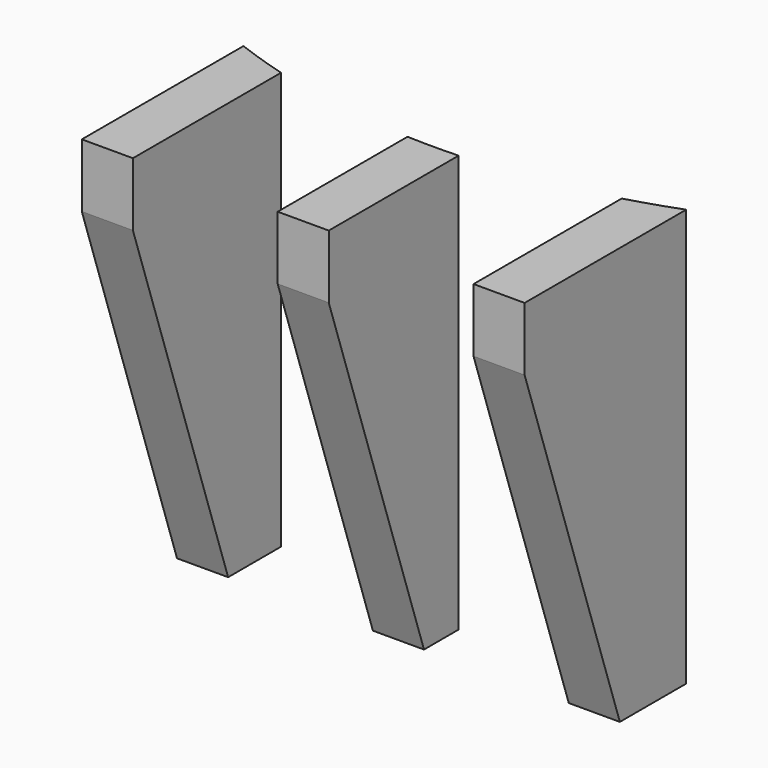
from build123d import *

# Parameters (mm, degrees)
CYLINDER1827_R         = 74
CYLINDER1827_DEPTH     = 64
BOX790_W               = 80
BOX790_H               = 6
BOX790_DEPTH           = 20
BOX790_PLACEMENT_ANGLE = 71.4
BOX792_W               = 44
BOX792_H               = 6
BOX792_DEPTH           = 49
CUT588_PLACEMENT_ANGLE = 90
BOX795_W               = 80
BOX795_H               = 6
BOX795_DEPTH           = 20
BOX795_PLACEMENT_ANGLE = 71.4
BOX796_W               = 44
BOX796_H               = 6
BOX796_DEPTH           = 49
CUT590_PLACEMENT_ANGLE = 90
BOX789_W               = 80
BOX789_H               = 6
BOX789_DEPTH           = 20
BOX789_PLACEMENT_ANGLE = 71.4
BOX787_W               = 44
BOX787_H               = 6
BOX787_DEPTH           = 49
CUT587_PLACEMENT_ANGLE = 90


with BuildPart() as obj1:
    # Cylinder1827 → Cylinder1827 (new body)
    with BuildSketch(Plane.XY.offset(25)):
        Circle(CYLINDER1827_R)
    extrude(amount=CYLINDER1827_DEPTH)


with BuildPart() as krychle790:
    # Box790 → Box790 (new body)
    with BuildSketch(Plane.XY):
        with Locations((40, 3)):
            Rectangle(BOX790_W, BOX790_H)
    extrude(amount=BOX790_DEPTH)


with BuildPart() as krychle790_1:
    # Box790 placement: moved
    add(krychle790.part.moved(Location((-118.17, -24, 82.63))).rotate(Axis((-118.17, -24, 82.63), (0, 1, 0)), BOX790_PLACEMENT_ANGLE))


with BuildPart() as cut588:
    # Box792 → Box792 (new body)
    with BuildSketch(Plane(origin=(-93, -24, 29), x_dir=(1, 0, 0), z_dir=(0, 0, 1))):
        with Locations((22, 3)):
            Rectangle(BOX792_W, BOX792_H)
    extrude(amount=BOX792_DEPTH)

    # Cut588: cut Krychle790
    add(krychle790_1.part, mode=Mode.SUBTRACT)


with BuildPart() as cut588_1:
    # Cut588 placement: moved
    add(cut588.part.moved(Location((-44, 0, 0))).rotate(Axis((-44, 0, 0), (0, 0, 1)), CUT588_PLACEMENT_ANGLE))


with BuildPart() as krychle795:
    # Box795 → Box795 (new body)
    with BuildSketch(Plane.XY):
        with Locations((40, 3)):
            Rectangle(BOX795_W, BOX795_H)
    extrude(amount=BOX795_DEPTH)


with BuildPart() as krychle795_1:
    # Box795 placement: moved
    add(krychle795.part.moved(Location((-118.17, -24, 82.63))).rotate(Axis((-118.17, -24, 82.63), (0, 1, 0)), BOX795_PLACEMENT_ANGLE))


with BuildPart() as cut590:
    # Box796 → Box796 (new body)
    with BuildSketch(Plane(origin=(-93, -24, 29), x_dir=(1, 0, 0), z_dir=(0, 0, 1))):
        with Locations((22, 3)):
            Rectangle(BOX796_W, BOX796_H)
    extrude(amount=BOX796_DEPTH)

    # Cut590: cut Krychle795
    add(krychle795_1.part, mode=Mode.SUBTRACT)


with BuildPart() as cut590_1:
    # Cut590 placement: moved
    add(cut590.part.moved(Location((-21, 0, 0))).rotate(Axis((-21, 0, 0), (0, 0, 1)), CUT590_PLACEMENT_ANGLE))


with BuildPart() as krychle789:
    # Box789 → Box789 (new body)
    with BuildSketch(Plane.XY):
        with Locations((40, 3)):
            Rectangle(BOX789_W, BOX789_H)
    extrude(amount=BOX789_DEPTH)


with BuildPart() as krychle789_1:
    # Box789 placement: moved
    add(krychle789.part.moved(Location((-118.17, -24, 82.63))).rotate(Axis((-118.17, -24, 82.63), (0, 1, 0)), BOX789_PLACEMENT_ANGLE))


with BuildPart() as cut593:
    # Box787 → Box787 (new body)
    with BuildSketch(Plane(origin=(-93, -24, 29), x_dir=(1, 0, 0), z_dir=(0, 0, 1))):
        with Locations((22, 3)):
            Rectangle(BOX787_W, BOX787_H)
    extrude(amount=BOX787_DEPTH)

    # Cut587: cut Krychle789
    add(krychle789_1.part, mode=Mode.SUBTRACT)


with BuildPart() as cut593_1:
    # Cut587 placement: moved
    add(cut593.part.moved(Location((2, 0, 0))).rotate(Axis((2, 0, 0), (0, 0, 1)), CUT587_PLACEMENT_ANGLE))

    # Compound929: union Cut588, Cut590
    add(cut588_1.part)
    add(cut590_1.part)

    # Cut593: cut obj1
    add(obj1.part, mode=Mode.SUBTRACT)


solid = cut593_1.part
